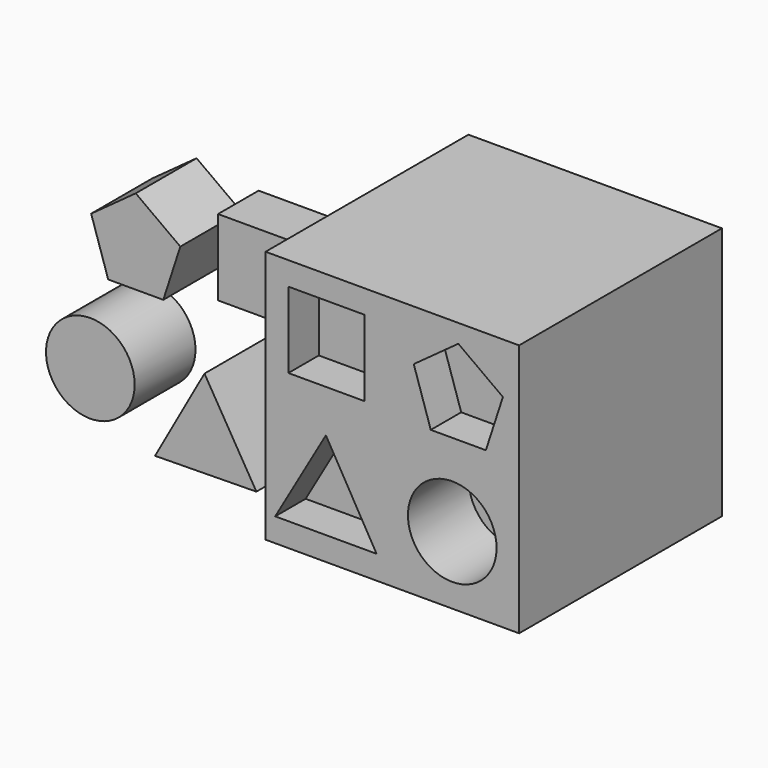
from build123d import *

# Parameters (mm, degrees)
F0_W      = 127
F0_H      = 127
F1_DEPTH  = 63.5
F2_W      = 38.1
F2_H      = 38.1
F3_DEPTH  = 19.05
F5_DEPTH  = 19.05
F7_DEPTH  = 19.05
F8_R      = 22.204998
F9_DEPTH  = 38.1
F10_W     = 38.1
F10_H     = 38.1
F11_DEPTH = 25.4
F13_DEPTH = 38.1
F15_DEPTH = 38.1
F16_R     = 22.204998
F17_DEPTH = 38.1


with BuildPart() as f1:
    # F0 (on Front) → F1 (new body, symmetric)
    with BuildSketch(Plane.XZ):
        Rectangle(F0_W, F0_H)
    extrude(amount=F1_DEPTH, both=True)

    # F2 (on face) → F3 (cut, symmetric)
    with BuildSketch(Plane.XZ.offset(63.5)):
        with Locations((-33.035155, 32.767861)):
            Rectangle(F2_W, F2_H)
    extrude(amount=F3_DEPTH, both=True, mode=Mode.SUBTRACT)

    # F4 (on face) → F5 (cut, symmetric)
    with BuildSketch(Plane.XZ.offset(63.5)):
        Polygon((55.385031, 38.097626), (33.054002, 54.322068), (10.722973, 38.097626), (19.252667, 11.845927), (46.855337, 11.845927), align=None)
    extrude(amount=F5_DEPTH, both=True, mode=Mode.SUBTRACT)

    # F6 (on face) → F7 (cut, symmetric)
    with BuildSketch(Plane.XZ.offset(63.5)):
        Polygon((-58.690952, -51.639486), (-7.890952, -51.639486), (-33.290952, -7.645395), align=None)
    extrude(amount=F7_DEPTH, both=True, mode=Mode.SUBTRACT)

    # F8 (on face) → F9 (cut)
    with BuildSketch(Plane.XZ.offset(63.5)):
        with Locations((30.004811, -29.527906)):
            Circle(F8_R)
    extrude(amount=-F9_DEPTH, mode=Mode.SUBTRACT)


with BuildPart() as f11:
    # F10 (on Front) → F11 (new body)
    with BuildSketch(Plane.XZ):
        with Locations((-98.754699, 27.924845)):
            Rectangle(F10_W, F10_H)
    extrude(amount=F11_DEPTH)


with BuildPart() as f13:
    # F12 (on Front) → F13 (new body)
    with BuildSketch(Plane.XZ):
        Polygon((-88.414853, -60.747008), (-114.431366, -17.114669), (-139.209824, -61.4618), align=None)
    extrude(amount=F13_DEPTH)


with BuildPart() as f15:
    # F14 (on Front) → F15 (new body)
    with BuildSketch(Plane.XZ):
        Polygon((-135.066645, 8.684747), (-126.536951, 34.936446), (-148.86798, 51.160888), (-171.199008, 34.936446), (-162.669314, 8.684747), align=None)
    extrude(amount=F15_DEPTH)


with BuildPart() as f17:
    # F16 (on Front) → F17 (new body)
    with BuildSketch(Plane.XZ):
        with Locations((-171.620026, -33.417065)):
            Circle(F16_R)
    extrude(amount=F17_DEPTH)


solid = Compound([f1.part, f11.part, f13.part, f15.part, f17.part])
